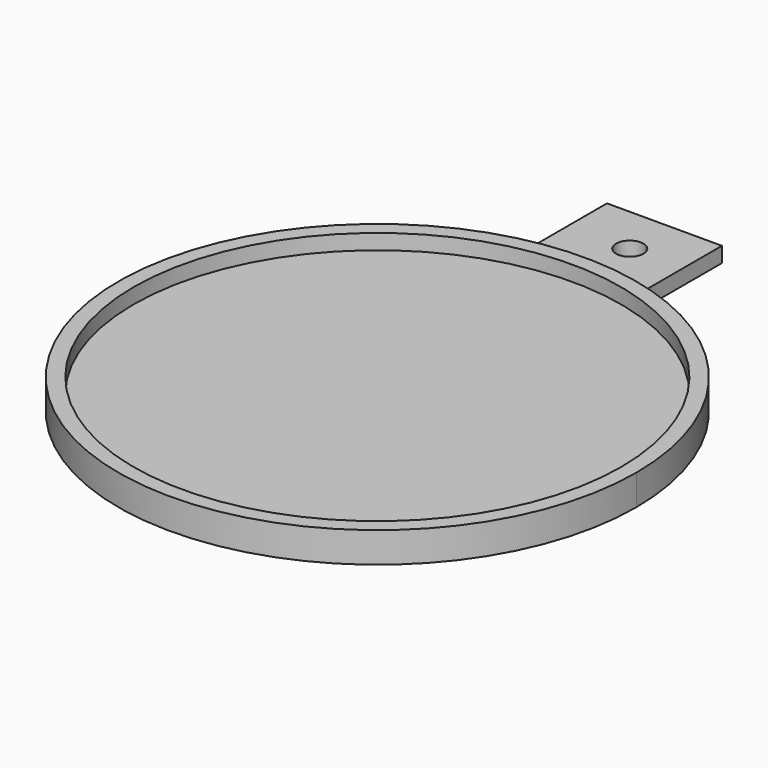
from build123d import *

# Parameters (mm, degrees)
F0_R     = 40
F1_DEPTH = 5
F2_DEPTH = 2.5
F3_D     = 4.4958


with BuildPart() as f1:
    # F0 (on Top) → F1 (new body)
    with BuildSketch(Plane.XY):
        with BuildLine():
            ThreePointArc((-10.1377908892, 41.273177681), (-26.2239765025, -33.4447762198), (42.5, 0))
            ThreePointArc((42.5, 0), (32.9936503742, 26.7893455497), (8.7273395302, 41.5942729799))
            ThreePointArc((8.7273395302, 41.5942729799), (-0.7232695256, 42.4938452154), (-10.1377908892, 41.273177681))
        make_face()
        Circle(F0_R, mode=Mode.SUBTRACT)
    extrude(amount=F1_DEPTH)

    # F0 (on Top) → F2 (join)
    with BuildSketch(Plane.XY):
        with BuildLine():
            ThreePointArc((-10.1377908892, 41.273177681), (-0.7232695256, 42.4938452154), (8.7273395302, 41.5942729799))
            Line((8.7273395302, 41.5942729799), (8.7273395302, 59.7816915568))
            Line((8.7273395302, 59.7816915568), (-10.1377908892, 59.7816915568))
            Line((-10.1377908892, 59.7816915568), (-10.1377908892, 41.273177681))
        make_face()
        Circle(F0_R)
    extrude(amount=F2_DEPTH)

    # F3 (through all)
    with Locations(Plane(origin=(0, 0, 0), x_dir=(1, 0, 0), z_dir=(0, 0, -1))):
        with Locations((0, -51.7816915568)):
            Hole(F3_D / 2)


solid = f1.part
